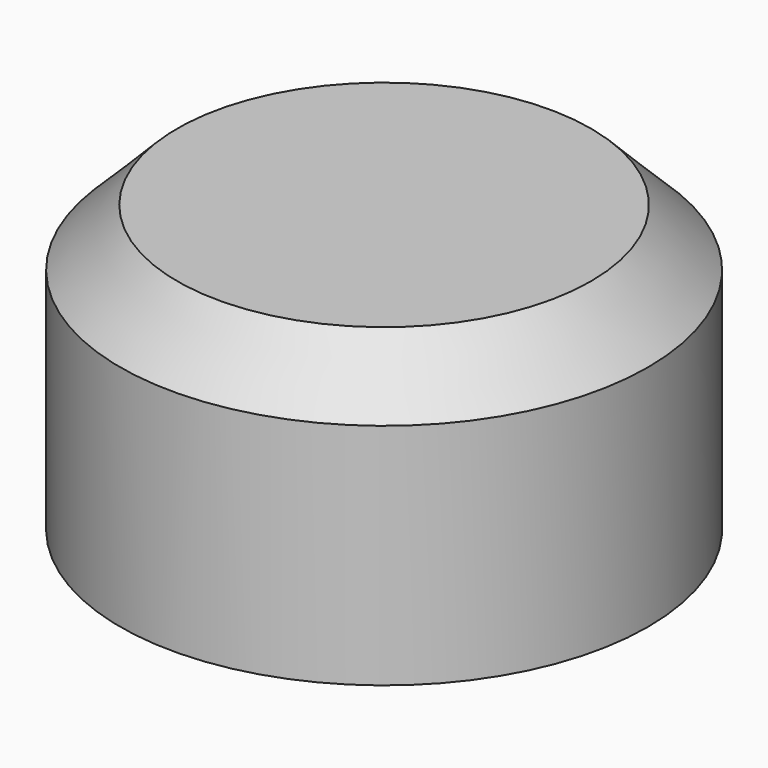
from build123d import *

# Parameters (mm, degrees)
F0_R     = 23.474053
F1_DEPTH = 25.4
F2_SIZE2 = 5.08
F2_SIZE  = 5.08


with BuildPart() as f1:
    # F0 (on Top) → F1 (new body)
    with BuildSketch(Plane.XY):
        Circle(F0_R)
    extrude(amount=F1_DEPTH)

    # F2
    f2_edges = [f1.edges().sort_by_distance(p)[0] for p in [
        (-23.474053, 0, 25.4),
    ]]
    chamfer(f2_edges, length=F2_SIZE, length2=F2_SIZE2)


solid = f1.part
